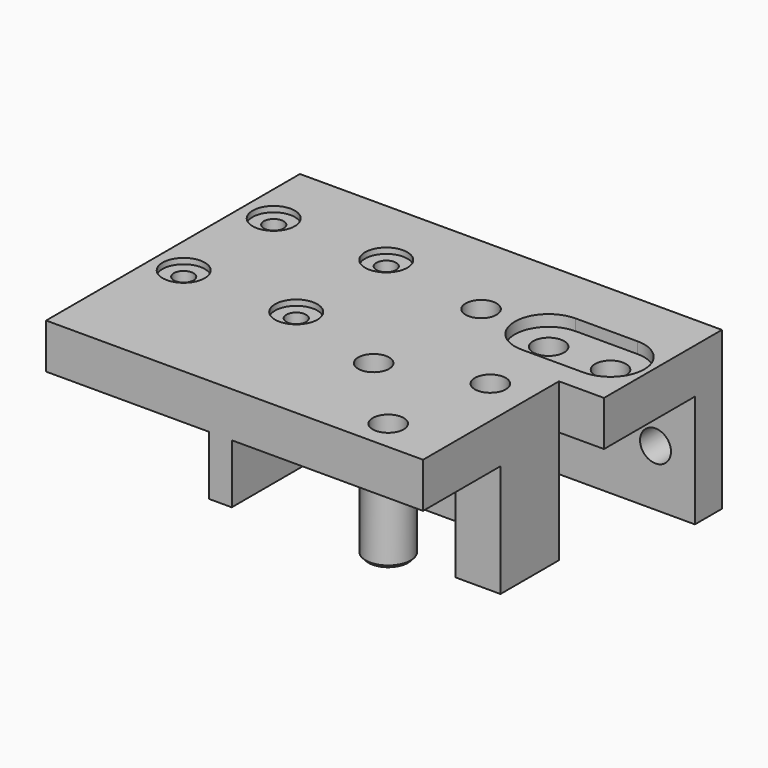
from build123d import *

# Parameters (mm, degrees)
SKETCH_R             = 1.75
SKETCH_R_2           = 2.75
PAD_DEPTH            = 8
PAD001_DEPTH         = 20
SKETCH004_R          = 2.75
POCKET_DEPTH         = 23.001
SKETCH005_R          = 2.75
POCKET001_DEPTH      = 20.001
POCKET001_DEPTH_BACK = 8.001
SKETCH008_R          = 4
SKETCH008_R_2        = 2.75
PAD005_DEPTH         = 2
SKETCH009_R          = 3.5
SKETCH009_R_2        = 2.75
PAD006_DEPTH         = 0.55
SKETCH010_R          = 4
SKETCH010_R_2        = 2.75
PAD007_DEPTH         = 12.1
SKETCH011_R          = 3.5
SKETCH011_R_2        = 2.75
PAD008_DEPTH         = 0.55
POCKET004_DEPTH      = 2
SKETCH020_W          = 4
SKETCH020_H          = 10.5
PAD013_DEPTH         = 33.4
PAD013_DEPTH_BACK    = 23
SKETCH021_W          = 27
SKETCH021_H          = 5
PAD014_DEPTH         = 3
SKETCH023_R          = 3.75
POCKET007_DEPTH      = 1


with BuildPart() as part:
    # Sketch → Pad (new body)
    with BuildSketch(Plane.XY):
        Polygon((0, 23), (73, 23), (73, -3.2), (65, -3.2), (65, -33.4), (0, -33.4), (-2, -33.4), (-2, 23), align=None)
        with Locations((3.5, 10.3)):
            Circle(SKETCH_R, mode=Mode.SUBTRACT)
        with Locations((23.5, 10.3)):
            Circle(SKETCH_R, mode=Mode.SUBTRACT)
        with Locations((3.5, -9.7)):
            Circle(SKETCH_R, mode=Mode.SUBTRACT)
        with Locations((23.5, -9.7)):
            Circle(SKETCH_R, mode=Mode.SUBTRACT)
        with Locations((55, 7)):
            Circle(SKETCH_R_2, mode=Mode.SUBTRACT)
        with Locations((41.5, -15)):
            Circle(SKETCH_R_2, mode=Mode.SUBTRACT)
        with Locations((54.45, -27.95)):
            Circle(SKETCH_R_2, mode=Mode.SUBTRACT)
        with Locations((66, 7)):
            Circle(SKETCH_R_2, mode=Mode.SUBTRACT)
    extrude(amount=PAD_DEPTH)

    # Sketch001 → Pad001 (join)
    with BuildSketch(Plane(origin=(0, 0, 0), x_dir=(1, 0, 0), z_dir=(0, 0, -1))):
        Polygon((73, -23), (39.5, -23), (39.5, 3), (46.5, 3), (57, 16.2), (65, 16.2), (65, 3.2), (47.5, 3.2), (47.5, -17), (73, -17), align=None)
    extrude(amount=PAD001_DEPTH)

    # Sketch004 → Pocket (cut, through all)
    with BuildSketch(Plane.XZ):
        with Locations((55, -10)):
            Circle(SKETCH004_R)
        with Locations((66, -10)):
            Circle(SKETCH004_R)
    extrude(amount=-POCKET_DEPTH, mode=Mode.SUBTRACT)

    # Sketch005 → Pocket001 (cut, two sides)
    with BuildSketch(Plane.XY) as pocket001_sk:
        with Locations((58, -9.7)):
            Circle(SKETCH005_R)
        with Locations((43, 7)):
            Circle(SKETCH005_R)
    extrude(amount=-POCKET001_DEPTH, mode=Mode.SUBTRACT)
    extrude(pocket001_sk.sketch, amount=POCKET001_DEPTH_BACK, mode=Mode.SUBTRACT)

    # Sketch008 → Pad005 (join)
    with BuildSketch(Plane.XY):
        with Locations((41.5, -15)):
            Circle(SKETCH008_R)
        with Locations((41.5, -15)):
            Circle(SKETCH008_R_2, mode=Mode.SUBTRACT)
    extrude(amount=-PAD005_DEPTH)

    # Sketch009 (on Face30 of Pad005) → Pad006 (join)
    with BuildSketch(Plane(origin=(0, 0, -2), x_dir=(1, 0, 0), z_dir=(0, 0, -1))):
        with Locations((41.5, 15)):
            Circle(SKETCH009_R)
        with Locations((41.5, 15)):
            Circle(SKETCH009_R_2, mode=Mode.SUBTRACT)
    extrude(amount=PAD006_DEPTH)

    # Sketch010 → Pad007 (join)
    with BuildSketch(Plane.XY):
        with Locations((54.45, -27.95)):
            Circle(SKETCH010_R)
        with Locations((54.45, -27.95)):
            Circle(SKETCH010_R_2, mode=Mode.SUBTRACT)
    extrude(amount=-PAD007_DEPTH)

    # Sketch011 (on Face32 of Pad007) → Pad008 (join)
    with BuildSketch(Plane(origin=(0, 0, -12.1), x_dir=(1, 0, 0), z_dir=(0, 0, -1))):
        with Locations((54.45, 27.95)):
            Circle(SKETCH011_R)
        with Locations((54.45, 27.95)):
            Circle(SKETCH011_R_2, mode=Mode.SUBTRACT)
    extrude(amount=PAD008_DEPTH)

    # Sketch017 (on DatumPlane) → Pocket004 (cut)
    with BuildSketch(Plane.XY.offset(8)):
        with BuildLine():
            ThreePointArc((55, 13), (49, 7), (55, 1))
            Line((55, 1), (66, 1))
            ThreePointArc((66, 1), (72, 7), (66, 13))
            Line((66, 13), (55, 13))
        make_face()
    extrude(amount=-POCKET004_DEPTH, mode=Mode.SUBTRACT)

    # Sketch020 → Pad013 (join, two sides)
    with BuildSketch(Plane.XZ) as pad013_sk:
        with Locations((29, -5.25)):
            Rectangle(SKETCH020_W, SKETCH020_H)
    extrude(amount=PAD013_DEPTH)
    extrude(pad013_sk.sketch, amount=-PAD013_DEPTH_BACK)

    # Sketch021 → Pad014 (join)
    with BuildSketch(Plane(origin=(0, 0, 0), x_dir=(-1, 0, 0), z_dir=(0, 0, -1))):
        with Locations((-13.5, -24.9)):
            Rectangle(SKETCH021_W, SKETCH021_H)
    extrude(amount=PAD014_DEPTH)

    # Sketch023 (on DatumPlane) → Pocket007 (cut)
    with BuildSketch(Plane.XY.offset(8)):
        with Locations((3.5, 10.3)):
            Circle(SKETCH023_R)
        with Locations((23.5, 10.3)):
            Circle(SKETCH023_R)
        with Locations((3.5, -9.7)):
            Circle(SKETCH023_R)
        with Locations((23.5, -9.7)):
            Circle(SKETCH023_R)
    extrude(amount=-POCKET007_DEPTH, mode=Mode.SUBTRACT)


solid = part.part
